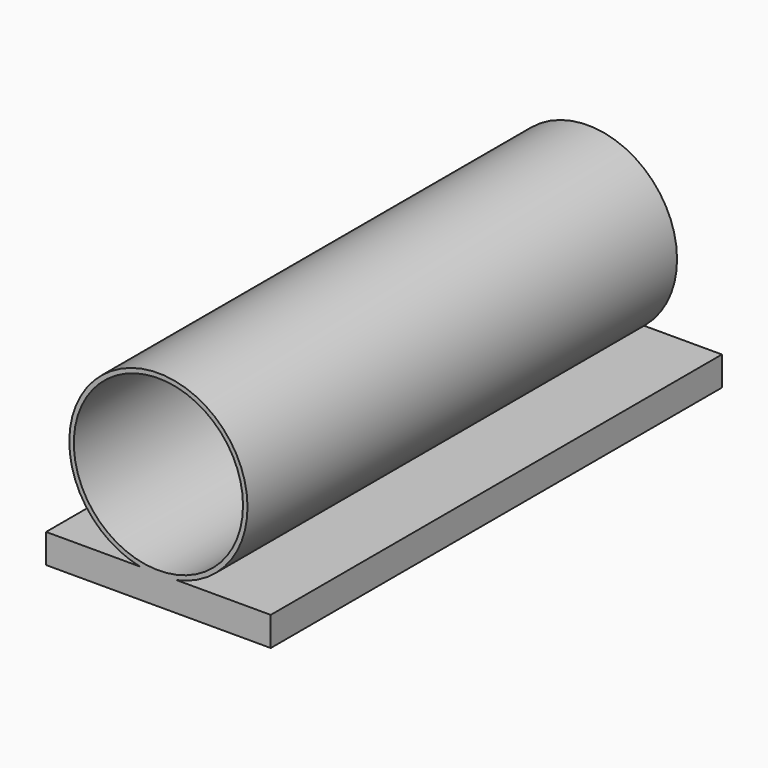
from build123d import *

# Parameters (mm, degrees)
F0_R     = 39.5
F0_R_2   = 37.5
F1_DEPTH = 238
F2_W     = 99.591478
F2_H     = 12.942728
F3_DEPTH = 250


with BuildPart() as f1:
    # F0 (on Front) → F1 (new body)
    with BuildSketch(Plane.XZ):
        Circle(F0_R)
        Circle(F0_R_2, mode=Mode.SUBTRACT)
    extrude(amount=-F1_DEPTH)

    # F2 (on Front) → F3 (join)
    with BuildSketch(Plane.XZ):
        with Locations((0, -45.142757)):
            Rectangle(F2_W, F2_H)
    extrude(amount=-F3_DEPTH)


solid = f1.part
